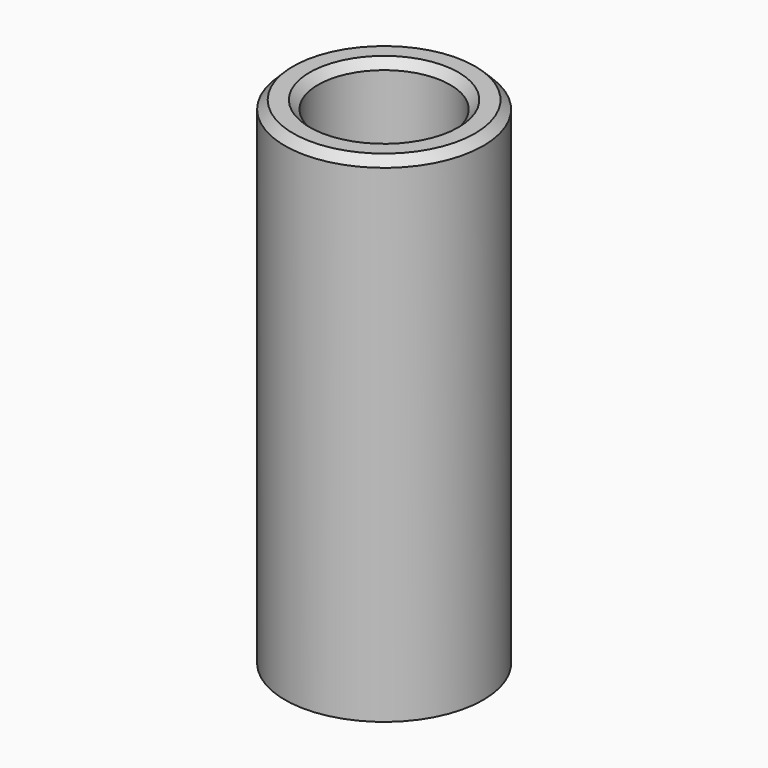
from build123d import *

# Parameters (mm, degrees)
SKETCH_R        = 6
SKETCH_R_2      = 4
PAD_DEPTH       = 30
CHAMFER_SIZE    = 0.5
CHAMFER001_SIZE = 0.5


with BuildPart() as part:
    # Sketch → Pad (new body)
    with BuildSketch(Plane.XY):
        Circle(SKETCH_R)
        Circle(SKETCH_R_2, mode=Mode.SUBTRACT)
    extrude(amount=PAD_DEPTH)

    # Chamfer
    chamfer_edges = [part.edges().sort_by_distance(p)[0] for p in [
        (-4, 0, 30),
    ]]
    chamfer(chamfer_edges, length=CHAMFER_SIZE)

    # Chamfer001
    chamfer001_edges = [part.edges().sort_by_distance(p)[0] for p in [
        (-6, 0, 30),
    ]]
    chamfer(chamfer001_edges, length=CHAMFER001_SIZE)


solid = part.part
